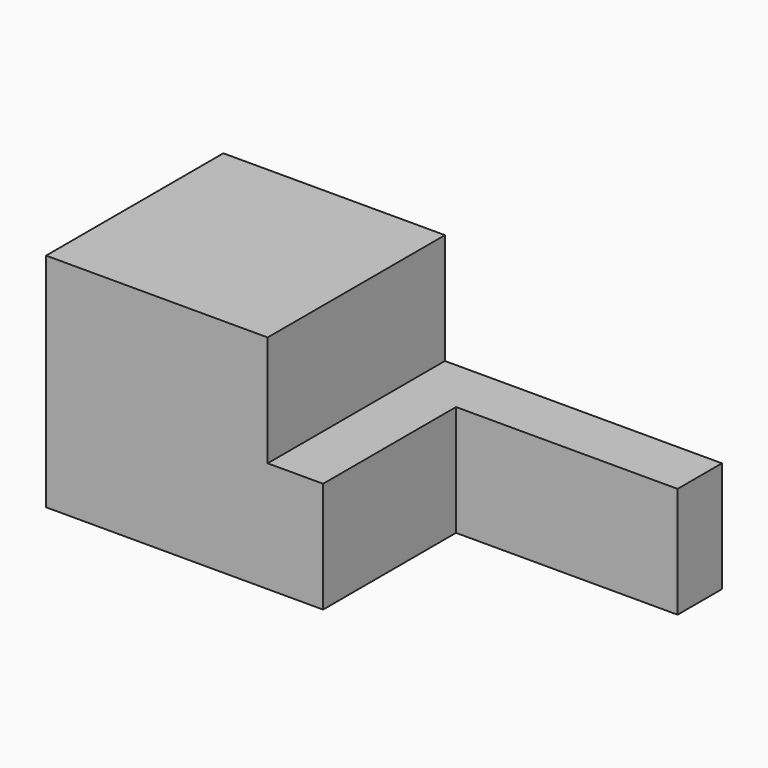
from build123d import *

# Parameters (mm, degrees)
F0_W     = 127
F0_H     = 50.8
F1_DEPTH = 101.6
F2_W     = 101.6
F2_H     = 76.2
F3_DEPTH = 50.8


with BuildPart() as f1:
    # F0 (on Front) → F1 (new body)
    with BuildSketch(Plane.XZ):
        Polygon((-101.6, 0), (0, 0), (0, 50.8), (0, 101.6), (-101.6, 101.6), align=None)
        with Locations((63.5, 25.4)):
            Rectangle(F0_W, F0_H)
    extrude(amount=F1_DEPTH)

    # F2 (on face) → F3 (cut)
    with BuildSketch(Plane.XY.offset(50.8)):
        with Locations((76.2, -63.5)):
            Rectangle(F2_W, F2_H)
    extrude(amount=-F3_DEPTH, mode=Mode.SUBTRACT)


solid = f1.part
